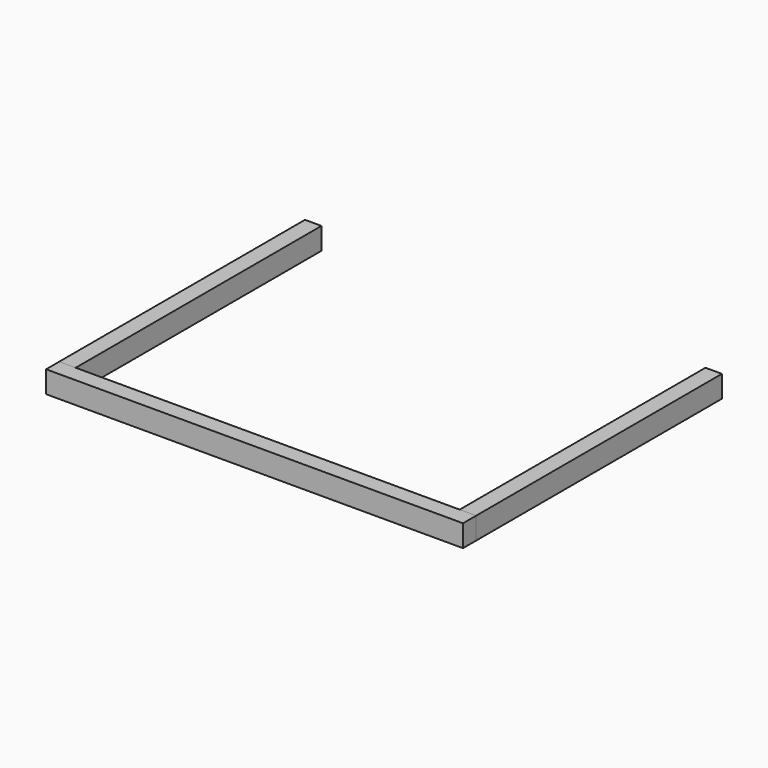
from build123d import *

# Parameters (mm, degrees)
F0_W     = 19.05
F0_H     = 25.4
F1_DEPTH = 482.6
F2_W     = 19.05
F2_H     = 25.4
F3_DEPTH = 355.6
F4_W     = 19.05
F4_H     = 25.4
F5_DEPTH = 355.6


with BuildPart() as f1:
    # F0 (on Right) → F1 (new body)
    with BuildSketch(Plane.YZ):
        with Locations((1.114054, -3.925239)):
            Rectangle(F0_W, F0_H)
    extrude(amount=F1_DEPTH)


with BuildPart() as f3:
    # F2 (on face) → F3 (new body)
    with BuildSketch(Plane(origin=(0, 10.639054, 0), x_dir=(-1, 0, 0), z_dir=(0, 1, 0))):
        with Locations((-9.525, -3.925239)):
            Rectangle(F2_W, F2_H)
    extrude(amount=F3_DEPTH)


with BuildPart() as f5:
    # F4 (on face) → F5 (new body)
    with BuildSketch(Plane(origin=(0, 10.639054, 0), x_dir=(-1, 0, 0), z_dir=(0, 1, 0))):
        with Locations((-473.075, -3.925239)):
            Rectangle(F4_W, F4_H)
    extrude(amount=F5_DEPTH)


solid = Compound([f1.part, f3.part, f5.part])
